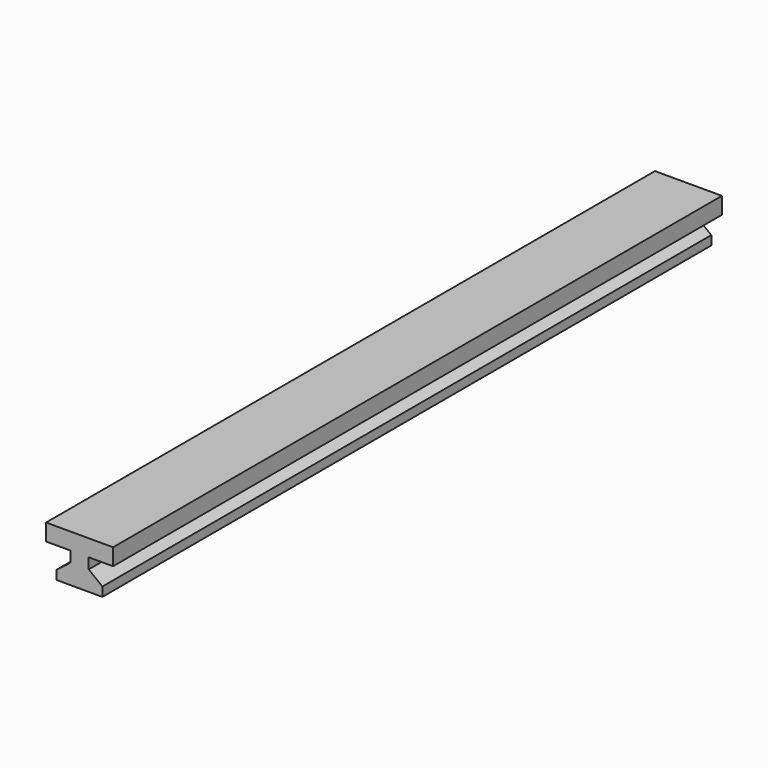
from build123d import *

# Parameters (mm, degrees)
F1_DEPTH = 250


with BuildPart() as f1:
    # F0 (on Front) → F1 (new body)
    with BuildSketch(Plane.XZ):
        Polygon((3, 3), (7.5, 3), (3, 6.5), align=None)
        Polygon((-3, 6.5), (-7.5, 3), (-3, 3), align=None)
        Polygon((-3, 10), (0, 10), (0, 15.5), (-11, 15.5), (-11, 10), align=None)
        Polygon((0, 15.5), (0, 10), (3, 10), (11, 10), (11, 15.5), align=None)
        Polygon((0, 0), (7.5, 0), (7.5, 3), (3, 3), (0, 3), align=None)
        Polygon((-7.5, 0), (0, 0), (0, 3), (-3, 3), (-7.5, 3), align=None)
        Polygon((-3, 3), (0, 3), (0, 10), (-3, 10), (-3, 6.5), align=None)
        Polygon((0, 10), (0, 3), (3, 3), (3, 6.5), (3, 10), align=None)
    extrude(amount=F1_DEPTH)


solid = f1.part
